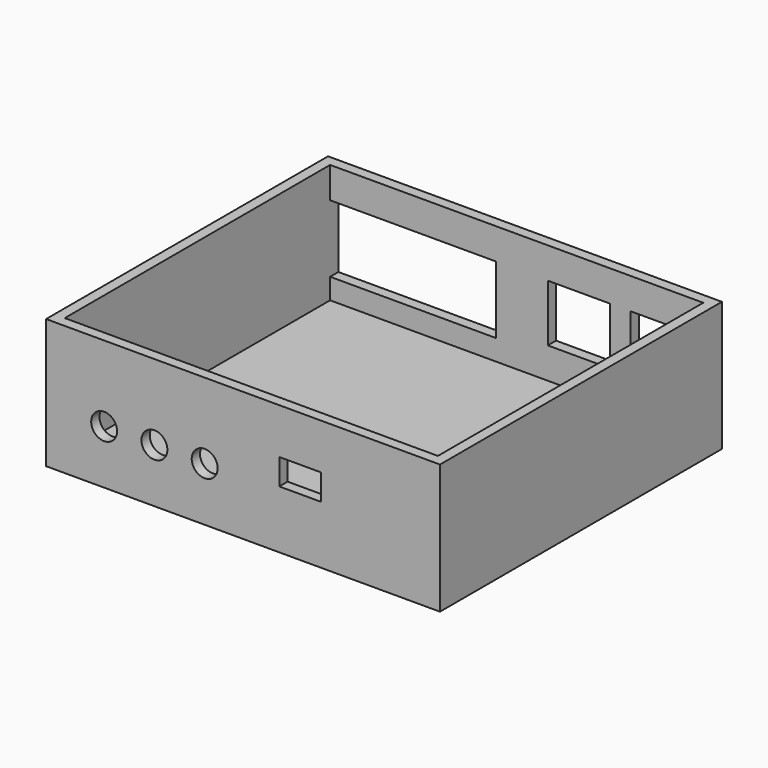
from build123d import *

# Parameters (mm, degrees)
SKETCH_W        = 76
SKETCH_H        = 68
PAD_DEPTH       = 25
SKETCH001_W     = 72
SKETCH001_H     = 64
POCKET_DEPTH    = 23
SKETCH002_R     = 2.5
SKETCH002_W     = 8
SKETCH002_H     = 5
POCKET001_DEPTH = 2
SKETCH003_W     = 32
SKETCH003_H     = 13
SKETCH003_W_2   = 12
SKETCH003_H_2   = 11
POCKET002_DEPTH = 2


with BuildPart() as part:
    # Sketch → Pad (new body)
    with BuildSketch(Plane.XY):
        Rectangle(SKETCH_W, SKETCH_H)
    extrude(amount=PAD_DEPTH)

    # Sketch001 → Pocket (cut)
    with BuildSketch(Plane.XY.offset(2)):
        Rectangle(SKETCH001_W, SKETCH001_H)
    extrude(amount=POCKET_DEPTH, mode=Mode.SUBTRACT)

    # Sketch002 → Pocket001 (cut)
    with BuildSketch(Plane.XZ.offset(34)):
        with Locations((-7.4, 10.4)):
            Circle(SKETCH002_R)
        with Locations((-17.1, 10.4)):
            Circle(SKETCH002_R)
        with Locations((-26.8, 10.4)):
            Circle(SKETCH002_R)
        with Locations((11, 13.7)):
            Rectangle(SKETCH002_W, SKETCH002_H)
    extrude(amount=-POCKET001_DEPTH, mode=Mode.SUBTRACT)

    # Sketch003 → Pocket002 (cut)
    with BuildSketch(Plane.XZ.offset(-34)):
        with Locations((-20, 12.5)):
            Rectangle(SKETCH003_W, SKETCH003_H)
        with Locations((12, 13.5)):
            Rectangle(SKETCH003_W_2, SKETCH003_H_2)
        with Locations((28, 13.5)):
            Rectangle(SKETCH003_W_2, SKETCH003_H_2)
    extrude(amount=POCKET002_DEPTH, mode=Mode.SUBTRACT)


solid = part.part
